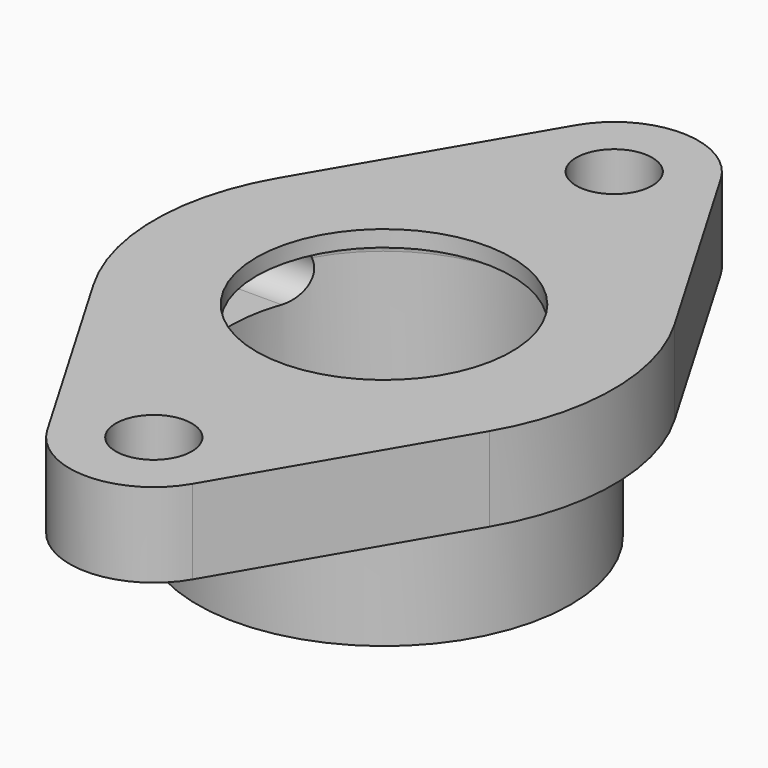
from build123d import *

# Parameters (mm, degrees)
F0_R     = 7.112
F0_R_2   = 34.925
F0_R_3   = 23.876
F1_DEPTH = 15.748
F2_R     = 34.925
F3_DEPTH = 22.352
F7_DEPTH = 43.9260001


with BuildPart() as f1:
    # F0 (on Top) → F1 (new body)
    with BuildSketch(Plane.XY):
        with BuildLine():
            Line((-13.5950101527, 61.7962830189), (-37.057366384, 21.6654811321))
            ThreePointArc((-37.057366384, 21.6654811321), (-42.926, 0), (-37.057366384, -21.6654811321))
            Line((-37.057366384, -21.6654811321), (-13.5950101527, -61.7962830189))
            ThreePointArc((-13.5950101527, -61.7962830189), (0, -69.596), (13.5950101527, -61.7962830189))
            Line((13.5950101527, -61.7962830189), (37.057366384, -21.6654811321))
            ThreePointArc((37.057366384, -21.6654811321), (42.926, 0), (37.057366384, 21.6654811321))
            Line((37.057366384, 21.6654811321), (13.5950101527, 61.7962830189))
            ThreePointArc((13.5950101527, 61.7962830189), (0, 69.596), (-13.5950101527, 61.7962830189))
        make_face()
        with Locations((0, -53.848)):
            Circle(F0_R, mode=Mode.SUBTRACT)
        Circle(F0_R_2, mode=Mode.SUBTRACT)
        with Locations((0, 53.848)):
            Circle(F0_R, mode=Mode.SUBTRACT)
        Circle(F0_R_2)
        Circle(F0_R_3, mode=Mode.SUBTRACT)
        Circle(F0_R_3)
    extrude(amount=F1_DEPTH)

    # F2 (on face) → F3 (join)
    with BuildSketch(Plane(origin=(0, 0, 0), x_dir=(1, 0, 0), z_dir=(0, 0, -1))):
        Circle(F2_R)
    extrude(amount=F3_DEPTH)

    # F4 (on Front) → F5 (revolve, cut)
    with BuildSketch(Plane.XZ):
        with BuildLine():
            Line((0, -22.352), (0, 15.748))
            Line((0, 15.748), (-23.876, 15.748))
            Line((-23.876, 15.748), (-23.876, 12.7))
            Line((-23.876, 12.7), (-25.527, 12.7))
            ThreePointArc((-25.527, 12.7), (-27.6822614691, 11.8072614691), (-28.575, 9.652))
            Line((-28.575, 9.652), (-28.575, -16.256))
            ThreePointArc((-28.575, -16.256), (-27.6822614691, -18.4112614691), (-25.527, -19.304))
            Line((-25.527, -19.304), (-23.876, -19.304))
            Line((-23.876, -19.304), (-23.876, -22.352))
            Line((-23.876, -22.352), (0, -22.352))
        make_face()
    revolve(axis=Axis((0, 0, -3.302), (0, 0, -1)), mode=Mode.SUBTRACT)

    # F6 (on Right) → F7 (cut, up to face)
    with BuildSketch(Plane.YZ):
        with BuildLine():
            ThreePointArc((9.652, 3.048), (14.478, 7.874), (9.652, 12.7))
            Line((9.652, 12.7), (-9.652, 12.7))
            ThreePointArc((-9.652, 12.7), (-14.478, 7.874), (-9.652, 3.048))
            Line((-9.652, 3.048), (9.652, 3.048))
        make_face()
    extrude(amount=-F7_DEPTH, mode=Mode.SUBTRACT)


solid = f1.part
